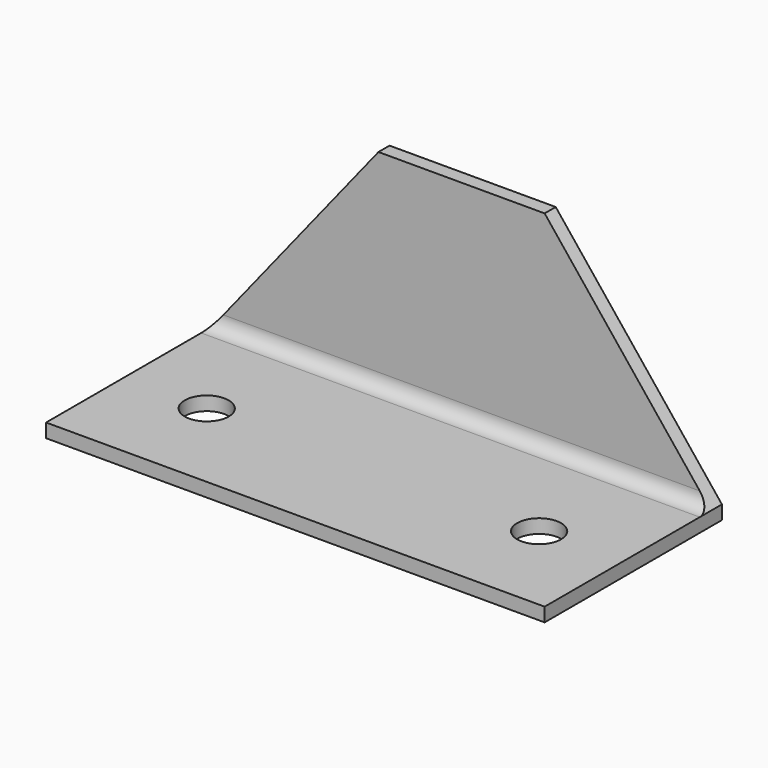
from build123d import *

# Parameters (mm, degrees)
F1_DEPTH = 152.4
F3_DEPTH = 50.801
F5_DEPTH = 25.4


with BuildPart() as f1:
    # F0 (on Right) → F1 (new body)
    with BuildSketch(Plane.YZ):
        with BuildLine():
            Line((0, 3.175), (0, 0))
            Line((0, 0), (50.8, 0))
            Line((50.8, 0), (50.8, 50.8))
            Line((50.8, 50.8), (47.625, 50.8))
            Line((47.625, 50.8), (47.625, 6.35))
            ThreePointArc((47.625, 6.35), (46.695064, 4.104936), (44.45, 3.175))
            Line((44.45, 3.175), (0, 3.175))
        make_face()
    extrude(amount=F1_DEPTH)

    # F2 (on face) → F3 (cut, through all)
    with BuildSketch(Plane(origin=(0, 50.8, 0), x_dir=(-1, 0, 0), z_dir=(0, 1, 0))):
        Polygon((0, 50.8), (-57.15, 50.8), (-19.05, 3.175), (-19.05, 0), (0, 0), align=None)
        Polygon((-133.35, 3.175), (-95.25, 50.8), (-152.4, 50.8), (-152.4, 0), (-133.35, 0), align=None)
    extrude(amount=-F3_DEPTH, mode=Mode.SUBTRACT)

    # F4 (on face) → F5 (cut)
    with BuildSketch(Plane.XY.offset(3.175)):
        with BuildLine():
            ThreePointArc((43.1419, 22.225), (38.1, 27.2669), (33.0581, 22.225))
            Line((33.0581, 22.225), (43.1419, 22.225))
        make_face()
        with BuildLine():
            Line((43.1419, 22.225), (33.0581, 22.225))
            ThreePointArc((33.0581, 22.225), (38.1, 17.1831), (43.1419, 22.225))
        make_face()
        with BuildLine():
            Line((109.2581, 22.225), (119.3419, 22.225))
            ThreePointArc((119.3419, 22.225), (114.3, 27.2669), (109.2581, 22.225))
        make_face()
        with BuildLine():
            ThreePointArc((109.2581, 22.225), (114.3, 17.1831), (119.3419, 22.225))
            Line((119.3419, 22.225), (109.2581, 22.225))
        make_face()
    extrude(amount=-F5_DEPTH, mode=Mode.SUBTRACT)


solid = f1.part
